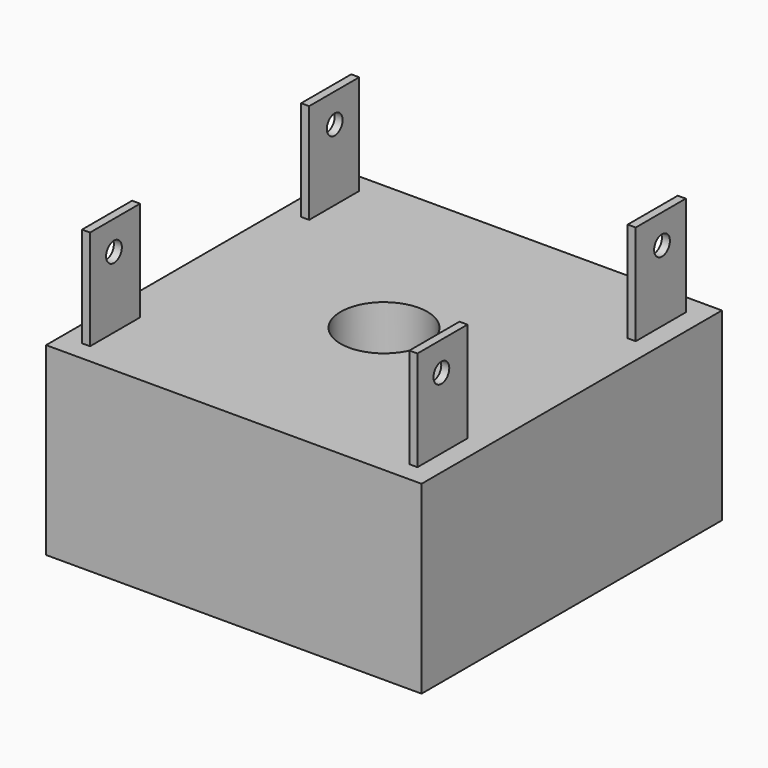
from build123d import *

# Parameters (mm, degrees)
F0_W      = 38.1
F0_H      = 38.1
F1_DEPTH  = 18.75
F2_R      = 2.15
F3_DEPTH  = 18.75
F2_R_2    = 4.4
F4_DEPTH  = 12.7
F5_W      = 0.8128
F5_H      = 6.35
F6_DEPTH  = 10.16
F5_W_2    = 0.813
F10_R     = 1
F11_DEPTH = 40


with BuildPart() as f1:
    # F0 (on Top) → F1 (new body)
    with BuildSketch(Plane.XY):
        Rectangle(F0_W, F0_H)
    extrude(amount=F1_DEPTH)

    # F2 (on face) → F3 (cut)
    with BuildSketch(Plane.XY.offset(18.75)):
        Circle(F2_R)
    extrude(amount=-F3_DEPTH, mode=Mode.SUBTRACT)

    # F2 (on face) → F4 (cut)
    with BuildSketch(Plane.XY.offset(18.75)):
        Circle(F2_R_2)
        Circle(F2_R, mode=Mode.SUBTRACT)
    extrude(amount=-F4_DEPTH, mode=Mode.SUBTRACT)


with BuildPart() as f6:
    # F5 (on face) → F6 (new body)
    with BuildSketch(Plane.XY.offset(18.75)):
        with Locations((-16.6121960382, -13.8547737718)):
            Rectangle(F5_W, F5_H)
    extrude(amount=F6_DEPTH)


with BuildPart() as f6b:
    # F5 (on face) → F6, piece 2 (new body)
    with BuildSketch(Plane.XY.offset(18.75)):
        with Locations((16.6111253681, -13.8547737718)):
            Rectangle(F5_W_2, F5_H)
    extrude(amount=F6_DEPTH)


with BuildPart() as f6c:
    # F5 (on face) → F6, piece 3 (new body)
    with BuildSketch(Plane.XY.offset(18.75)):
        with Locations((16.6111253681, 13.8284788102)):
            Rectangle(F5_W_2, F5_H)
    extrude(amount=F6_DEPTH)


with BuildPart() as f6d:
    # F5 (on face) → F6, piece 4 (new body)
    with BuildSketch(Plane.XY.offset(18.75)):
        with Locations((-15.7704279306, 13.3477284491)):
            Rectangle(F5_W_2, F5_H)
    extrude(amount=F6_DEPTH)


with BuildPart() as f6d_1:
    # F7: moved
    add(f6d.part.moved(Location((-0.832, 0.58, 0))))


with BuildPart() as f11_tool:
    # F10 (on plane+point) → F11 (new body)
    with BuildSketch(Plane.YZ.offset(17.0176253681)):
        with Locations((-13.9932865277, 25.9587639272)):
            Circle(F10_R)
        with Locations((13.9932865277, 25.9587639272)):
            Circle(F10_R)
    extrude(amount=-F11_DEPTH)


with BuildPart() as f6_1:
    add(f6.part)

    # F11: cut by f11_tool
    add(f11_tool.part, mode=Mode.SUBTRACT)


with BuildPart() as f6b_1:
    add(f6b.part)

    # F11: cut by f11_tool
    add(f11_tool.part, mode=Mode.SUBTRACT)


with BuildPart() as f6c_1:
    add(f6c.part)

    # F11: cut by f11_tool
    add(f11_tool.part, mode=Mode.SUBTRACT)


with BuildPart() as f6d_2:
    add(f6d_1.part)

    # F11: cut by f11_tool
    add(f11_tool.part, mode=Mode.SUBTRACT)


solid = Compound([f1.part, f6_1.part, f6b_1.part, f6c_1.part, f6d_2.part])
